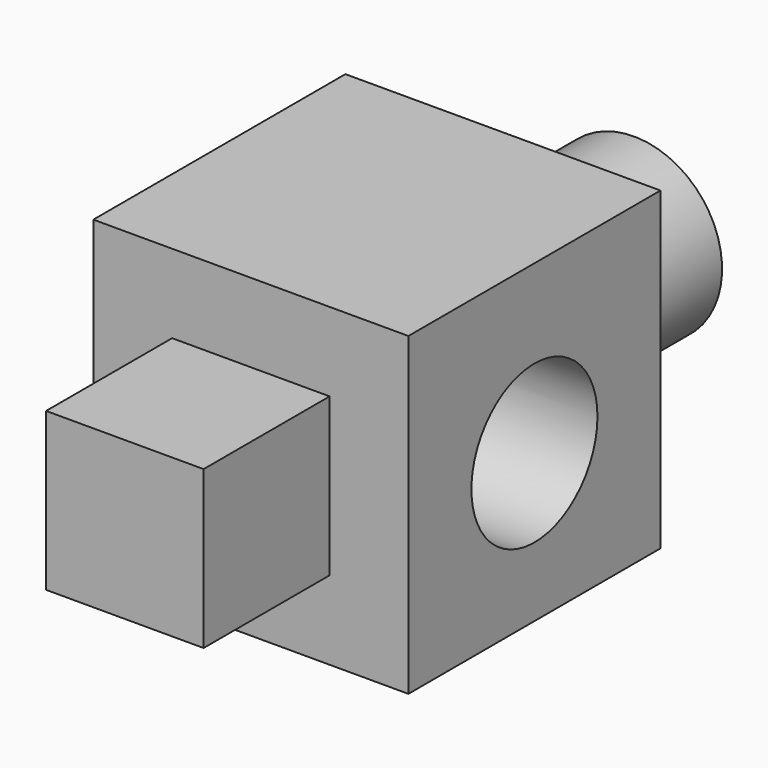
from build123d import *

# Parameters (mm, degrees)
F0_W     = 50.8
F0_H     = 50.8
F1_DEPTH = 50.8
F2_W     = 25.4
F2_H     = 25.4
F3_DEPTH = 25.4
F4_W     = 25.4
F4_H     = 25.4
F5_DEPTH = 25.4
F6_R     = 12.703868
F7_DEPTH = 25.4
F8_R     = 14.195008
F9_DEPTH = 25.4


with BuildPart() as f1:
    # F0 (on Front) → F1 (new body)
    with BuildSketch(Plane.XZ):
        with Locations((-25.4, 25.4)):
            Rectangle(F0_W, F0_H)
    extrude(amount=F1_DEPTH)

    # F2 (on face) → F3 (join)
    with BuildSketch(Plane.XZ.offset(50.8)):
        with Locations((-25.4, 25.4)):
            Rectangle(F2_W, F2_H)
    extrude(amount=F3_DEPTH)

    # F4 (on face) → F5 (cut)
    with BuildSketch(Plane(origin=(-50.8, 0, 0), x_dir=(0, -1, 0), z_dir=(-1, 0, 0))):
        with Locations((25.4, 25.4)):
            Rectangle(F4_W, F4_H)
    extrude(amount=-F5_DEPTH, mode=Mode.SUBTRACT)

    # F6 (on face) → F7 (cut)
    with BuildSketch(Plane.YZ):
        with Locations((-25.396969, 23.869332)):
            Circle(F6_R)
    extrude(amount=-F7_DEPTH, mode=Mode.SUBTRACT)

    # F8 (on face) → F9 (join)
    with BuildSketch(Plane(origin=(0, 0, 0), x_dir=(-1, 0, 0), z_dir=(0, 1, 0))):
        with Locations((24.574604, 25.969833)):
            Circle(F8_R)
    extrude(amount=F9_DEPTH)


solid = f1.part
